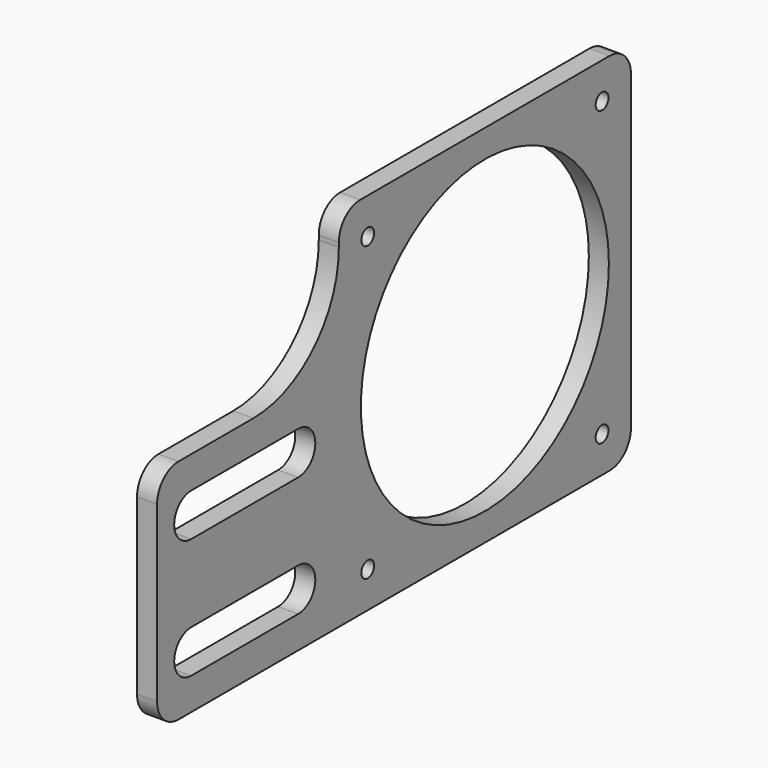
from build123d import *

# Parameters (mm, degrees)
F0_R     = 36.83
F1_DEPTH = 4.7625
F2_D     = 3.7973


with BuildPart() as f1:
    # F0 (on Right) → F1 (new body)
    with BuildSketch(Plane.YZ):
        with BuildLine():
            ThreePointArc((43.38447, 37.03447), (41.5245980605, 41.5245980605), (37.03447, 43.38447))
            Line((37.03447, 43.38447), (-37.03447, 43.38447))
            ThreePointArc((-37.03447, 43.38447), (-41.5245980605, 41.5245980605), (-43.38447, 37.03447))
            Line((-43.38447, 37.03447), (-43.38447, 35.99053))
            ThreePointArc((-43.38447, 35.99053), (-50.8239577579, 18.0300177579), (-68.78447, 10.59053))
            Line((-68.78447, 10.59053), (-91.00947, 10.59053))
            ThreePointArc((-91.00947, 10.59053), (-95.4995980605, 8.7306580605), (-97.35947, 4.24053))
            Line((-97.35947, 4.24053), (-97.35947, -37.03447))
            ThreePointArc((-97.35947, -37.03447), (-95.4995980605, -41.5245980605), (-91.00947, -43.38447))
            Line((-91.00947, -43.38447), (-43.38447, -43.38447))
            Line((-43.38447, -43.38447), (37.03447, -43.38447))
            ThreePointArc((37.03447, -43.38447), (41.5245980605, -41.5245980605), (43.38447, -37.03447))
            Line((43.38447, -37.03447), (43.38447, 37.03447))
        make_face()
        with BuildLine():
            Line((-55.44947, -35.76447), (-87.19947, -35.76447))
            ThreePointArc((-87.19947, -35.76447), (-92.27947, -30.68447), (-87.19947, -25.60447))
            Line((-87.19947, -25.60447), (-55.44947, -25.60447))
            ThreePointArc((-55.44947, -25.60447), (-50.36947, -30.68447), (-55.44947, -35.76447))
        make_face(mode=Mode.SUBTRACT)
        with BuildLine():
            Line((-55.44947, -7.18947), (-87.19947, -7.18947))
            ThreePointArc((-87.19947, -7.18947), (-92.27947, -2.10947), (-87.19947, 2.97053))
            Line((-87.19947, 2.97053), (-55.44947, 2.97053))
            ThreePointArc((-55.44947, 2.97053), (-50.36947, -2.10947), (-55.44947, -7.18947))
        make_face(mode=Mode.SUBTRACT)
        Circle(F0_R, mode=Mode.SUBTRACT)
    extrude(amount=F1_DEPTH)

    # F2 (through all)
    with Locations(Plane(origin=(0, 0, 0), x_dir=(0, 1, 0), z_dir=(-1, 0, 0))):
        with Locations((34.7984924691, -34.7984924691), (34.7984924691, 34.7984924691), (-34.7984924691, 34.7984924691), (-34.7984924691, -34.7984924691)):
            Hole(F2_D / 2)


solid = f1.part
